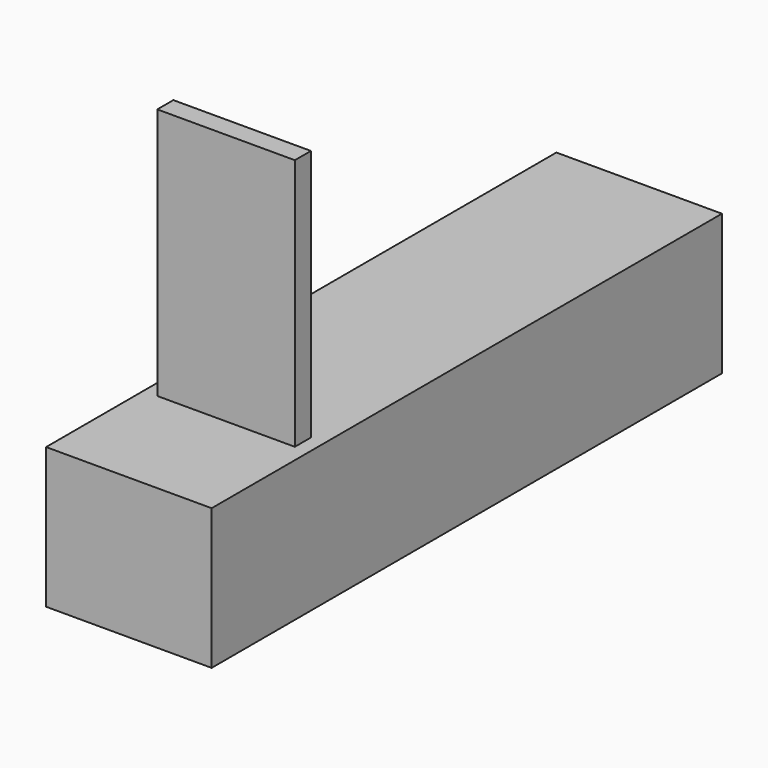
from build123d import *

# Parameters (mm, degrees)
F0_W     = 82.625687
F0_H     = 70.162598
F1_DEPTH = 318.33604
F2_W     = 68.658083
F2_H     = 10.02872
F3_DEPTH = 160.77173


with BuildPart() as f1:
    # F0 (on Front) → F1 (new body)
    with BuildSketch(Plane.XZ):
        with Locations((3.923572, -0.230795)):
            Rectangle(F0_W, F0_H)
    extrude(amount=F1_DEPTH)

    # F2 (on Top) → F3 (join)
    with BuildSketch(Plane.XY):
        with Locations((3.857195, -252.598405)):
            Rectangle(F2_W, F2_H)
    extrude(amount=F3_DEPTH)


solid = f1.part
